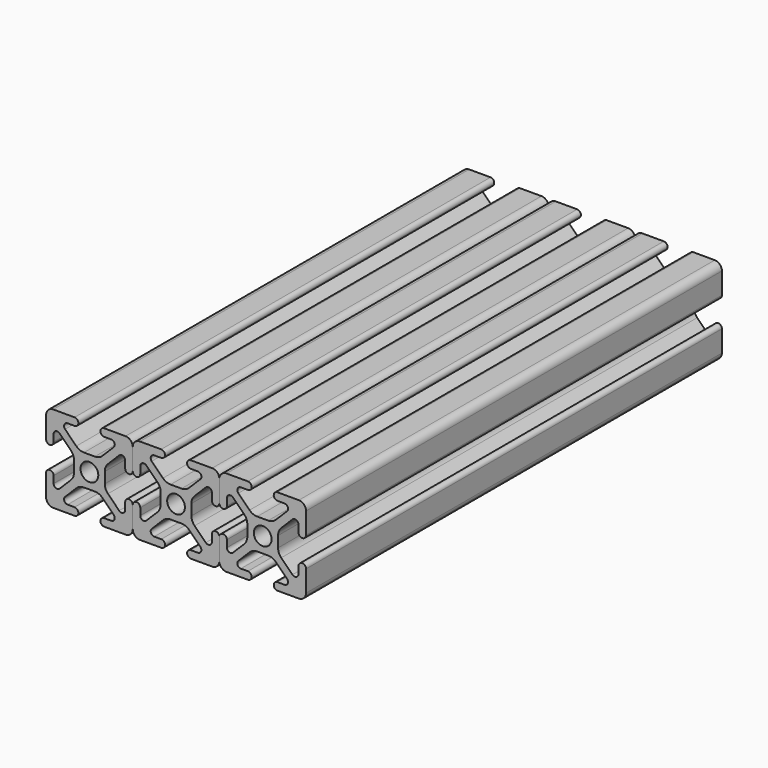
from build123d import *

# Parameters (mm, degrees)
F0_R     = 2.6035
F1_DEPTH = 152.4


with BuildPart() as f1:
    # F0 (on Front) → F1 (new body)
    with BuildSketch(Plane.XZ):
        with BuildLine():
            Line((-4.370089, 12.764578), (-10.618489, 12.764578))
            ThreePointArc((-10.618489, 12.764578), (-12.109211, 12.147101), (-12.726689, 10.656378))
            Line((-12.726689, 10.656378), (-12.726689, 4.407978))
            ThreePointArc((-12.726689, 4.407978), (-11.621789, 3.303078), (-10.516889, 4.407978))
            Line((-10.516889, 4.407978), (-10.516889, 6.464108))
            ThreePointArc((-10.516889, 6.464108), (-9.878719, 7.419196), (-8.752116, 7.195101))
            Line((-8.752116, 7.195101), (-5.465125, 3.90811))
            ThreePointArc((-5.465125, 3.90811), (-4.776871, 2.878066), (-4.535189, 1.663046))
            Line((-4.535189, 1.663046), (-4.535189, -1.533889))
            ThreePointArc((-4.535189, -1.533889), (-4.776871, -2.748909), (-5.465125, -3.778953))
            Line((-5.465125, -3.778953), (-8.752116, -7.065945))
            ThreePointArc((-8.752116, -7.065945), (-9.878719, -7.29004), (-10.516889, -6.334952))
            Line((-10.516889, -6.334952), (-10.516889, -4.278822))
            ThreePointArc((-10.516889, -4.278822), (-11.621789, -3.173922), (-12.726689, -4.278822))
            Line((-12.726689, -4.278822), (-12.726689, -10.527222))
            ThreePointArc((-12.726689, -10.527222), (-12.109211, -12.017944), (-10.618489, -12.635422))
            Line((-10.618489, -12.635422), (-4.370089, -12.635422))
            ThreePointArc((-4.370089, -12.635422), (-3.265189, -11.530522), (-4.370089, -10.425622))
            Line((-4.370089, -10.425622), (-6.426219, -10.425622))
            ThreePointArc((-6.426219, -10.425622), (-7.381307, -9.787452), (-7.157212, -8.660849))
            Line((-7.157212, -8.660849), (-3.87022, -5.373858))
            ThreePointArc((-3.87022, -5.373858), (-2.840176, -4.685604), (-1.625156, -4.443922))
            Line((-1.625156, -4.443922), (1.571779, -4.443922))
            ThreePointArc((1.571779, -4.443922), (2.786799, -4.685604), (3.816843, -5.373858))
            Line((3.816843, -5.373858), (7.103834, -8.660849))
            ThreePointArc((7.103834, -8.660849), (7.327929, -9.787452), (6.372841, -10.425622))
            Line((6.372841, -10.425622), (4.316711, -10.425622))
            ThreePointArc((4.316711, -10.425622), (3.211811, -11.530522), (4.316711, -12.635422))
            Line((4.316711, -12.635422), (10.565111, -12.635422))
            ThreePointArc((10.565111, -12.635422), (12.055834, -12.017944), (12.673311, -10.527222))
            Line((12.673311, -10.527222), (12.673311, -4.278822))
            ThreePointArc((12.673311, -4.278822), (11.568411, -3.173922), (10.463511, -4.278822))
            Line((10.463511, -4.278822), (10.463511, -6.334952))
            ThreePointArc((10.463511, -6.334952), (9.825342, -7.29004), (8.698738, -7.065945))
            Line((8.698738, -7.065945), (5.411747, -3.778953))
            ThreePointArc((5.411747, -3.778953), (4.723494, -2.748909), (4.481811, -1.533889))
            Line((4.481811, -1.533889), (4.481811, 1.663046))
            ThreePointArc((4.481811, 1.663046), (4.723494, 2.878066), (5.411747, 3.90811))
            Line((5.411747, 3.90811), (8.698738, 7.195101))
            ThreePointArc((8.698738, 7.195101), (9.825342, 7.419196), (10.463511, 6.464108))
            Line((10.463511, 6.464108), (10.463511, 4.407978))
            ThreePointArc((10.463511, 4.407978), (11.568411, 3.303078), (12.673311, 4.407978))
            Line((12.673311, 4.407978), (12.673311, 10.656378))
            ThreePointArc((12.673311, 10.656378), (12.055834, 12.147101), (10.565111, 12.764578))
            Line((10.565111, 12.764578), (4.316711, 12.764578))
            ThreePointArc((4.316711, 12.764578), (3.211811, 11.659678), (4.316711, 10.554778))
            Line((4.316711, 10.554778), (6.372841, 10.554778))
            ThreePointArc((6.372841, 10.554778), (7.327929, 9.916609), (7.103834, 8.790005))
            Line((7.103834, 8.790005), (3.816843, 5.503014))
            ThreePointArc((3.816843, 5.503014), (2.786799, 4.814761), (1.571779, 4.573078))
            Line((1.571779, 4.573078), (-1.625156, 4.573078))
            ThreePointArc((-1.625156, 4.573078), (-2.840176, 4.814761), (-3.87022, 5.503014))
            Line((-3.87022, 5.503014), (-7.157212, 8.790005))
            ThreePointArc((-7.157212, 8.790005), (-7.381307, 9.916609), (-6.426219, 10.554778))
            Line((-6.426219, 10.554778), (-4.370089, 10.554778))
            ThreePointArc((-4.370089, 10.554778), (-3.265189, 11.659678), (-4.370089, 12.764578))
        make_face()
        with Locations((-0.026689, 0.064578)):
            Circle(F0_R, mode=Mode.SUBTRACT)
    extrude(amount=F1_DEPTH)


with BuildPart() as f2_1:
    # F2: copy of F1
    add(f1.part)


with BuildPart() as f4_1:
    # F4: copy of F1
    add(f1.part.moved(Location((25.4, 0, 0))))


with BuildPart() as f5_1:
    # F5: copy of F1
    add(f1.part.moved(Location((-25.4, 0, 0))))


solid = Compound([f1.part, f4_1.part, f5_1.part])
